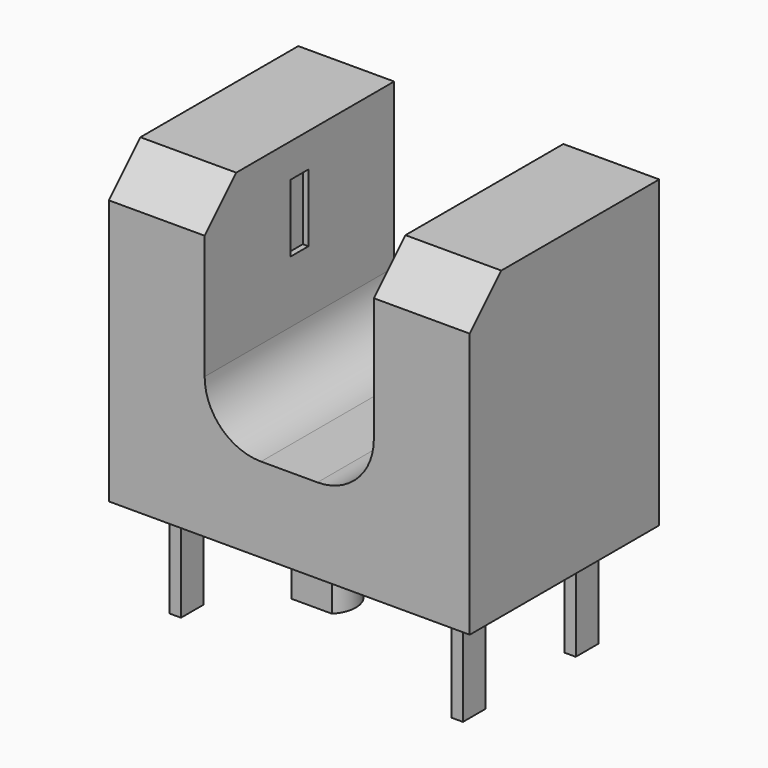
from build123d import *

# Parameters (mm, degrees)
F0_W      = 6.4
F0_H      = 4.2
F1_DEPTH  = 5.4
F3_DEPTH  = 4.2
F4_SIZE   = 0.7
F5_W      = 0.4
F5_H      = 1.2
F6_DEPTH  = 1.6
F8_DEPTH  = 0.8
F9_W      = 0.2
F9_H      = 0.5
F10_DEPTH = 1.8


with BuildPart() as f1:
    # F0 (on Top) → F1 (new body)
    with BuildSketch(Plane.XY):
        Rectangle(F0_W, F0_H)
    extrude(amount=F1_DEPTH)

    # F2 (on face) → F3 (cut, through all)
    with BuildSketch(Plane.XZ.offset(2.1)):
        with BuildLine():
            Line((1.5, 2.5), (1.5, 5.4))
            Line((1.5, 5.4), (-1.5, 5.4))
            Line((-1.5, 5.4), (-1.5, 2.5))
            ThreePointArc((-1.5, 2.5), (-1.207107, 1.792893), (-0.5, 1.5))
            Line((-0.5, 1.5), (0.5, 1.5))
            ThreePointArc((0.5, 1.5), (1.207107, 1.792893), (1.5, 2.5))
        make_face()
    extrude(amount=-F3_DEPTH, mode=Mode.SUBTRACT)

    # F4
    f4_edges = [f1.edges().sort_by_distance(p)[0] for p in [
        (2.35, -2.1, 5.4),
        (-2.35, -2.1, 5.4),
    ]]
    chamfer(f4_edges, length=F4_SIZE)

    # F5 (on Right) → F6 (cut, symmetric)
    with BuildSketch(Plane.YZ):
        with Locations((0, 4.2)):
            Rectangle(F5_W, F5_H)
    extrude(amount=F6_DEPTH, both=True, mode=Mode.SUBTRACT)

    # F7 (on face) → F8 (join)
    with BuildSketch(Plane(origin=(0, 0, 0), x_dir=(1, 0, 0), z_dir=(0, 0, -1))):
        with BuildLine():
            Line((0.357071, 1.6), (-0.357071, 1.6))
            ThreePointArc((-0.357071, 1.6), (0, 0.75), (0.357071, 1.6))
        make_face()
        with BuildLine():
            Line((-0.606218, -1.6), (0.606218, -1.6))
            ThreePointArc((0.606218, -1.6), (0, -0.55), (-0.606218, -1.6))
        make_face()
    extrude(amount=F8_DEPTH)

    # F9 (on face) → F10 (join)
    with BuildSketch(Plane(origin=(0, 0, 0), x_dir=(1, 0, 0), z_dir=(0, 0, -1))):
        with Locations((-2.5, 1.25)):
            Rectangle(F9_W, F9_H)
        with Locations((-2.5, -1.25)):
            Rectangle(F9_W, F9_H)
        with Locations((2.5, 1.25)):
            Rectangle(F9_W, F9_H)
        with Locations((2.5, -1.25)):
            Rectangle(F9_W, F9_H)
    extrude(amount=F10_DEPTH)


solid = f1.part
